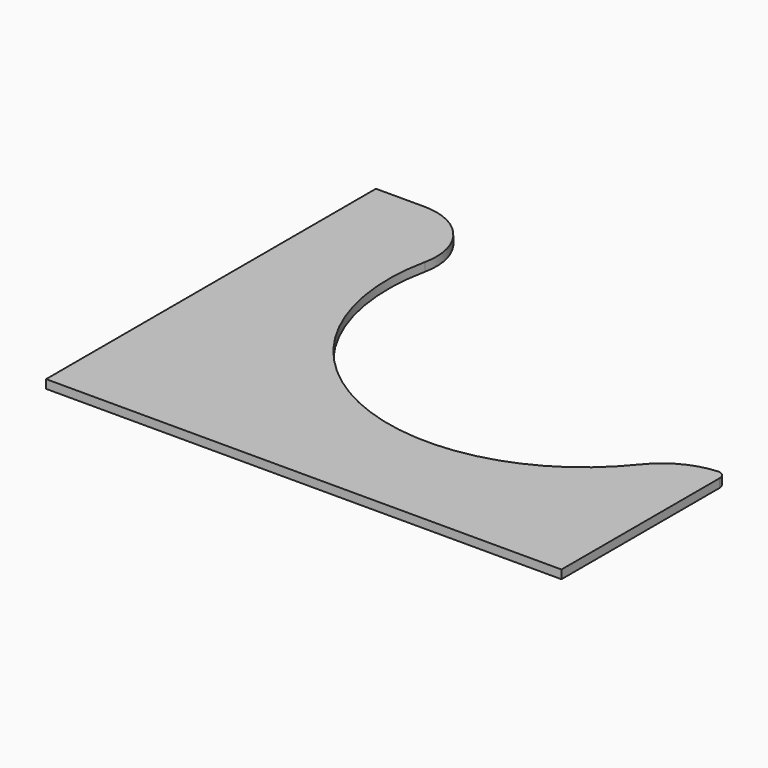
from build123d import *

# Parameters (mm, degrees)
F1_DEPTH = 25.4


with BuildPart() as f1:
    # F0 (on Top) → F1 (new body)
    with BuildSketch(Plane.XY):
        with BuildLine():
            Line((121.92, -609.5999997587), (762, -609.5999997587))
            Line((762, -609.5999997587), (762, -25.3999998058))
            ThreePointArc((762, -25.3999998058), (756.0315298347, -9.0422601), (740.9310513162, -0.371975623))
            ThreePointArc((740.9310513162, -0.371975623), (648.8364133525, -25.6084336229), (575.085582023, -86.2641508494))
            ThreePointArc((575.085582023, -86.2641508494), (373.473653422, -247.312757888), (121.92, -304.8000002413))
            Line((121.92, -304.8000002413), (121.92, -609.5999997587))
        make_face()
        with BuildLine():
            Line((-762, -609.5999997587), (121.92, -609.5999997587))
            Line((121.92, -609.5999997587), (121.92, -304.8000002413))
            ThreePointArc((121.92, -304.8000002413), (-328.1672226878, -90.0993553436), (-444.5273526443, 394.80805345))
            ThreePointArc((-444.5273526443, 394.80805345), (-480.2519539467, 543.6831350971), (-618.4366275789, 609.5999997587))
            Line((-618.4366275789, 609.5999997587), (-762, 609.5999997587))
            Line((-762, 609.5999997587), (-762, -609.5999997587))
        make_face()
    extrude(amount=F1_DEPTH)


solid = f1.part
